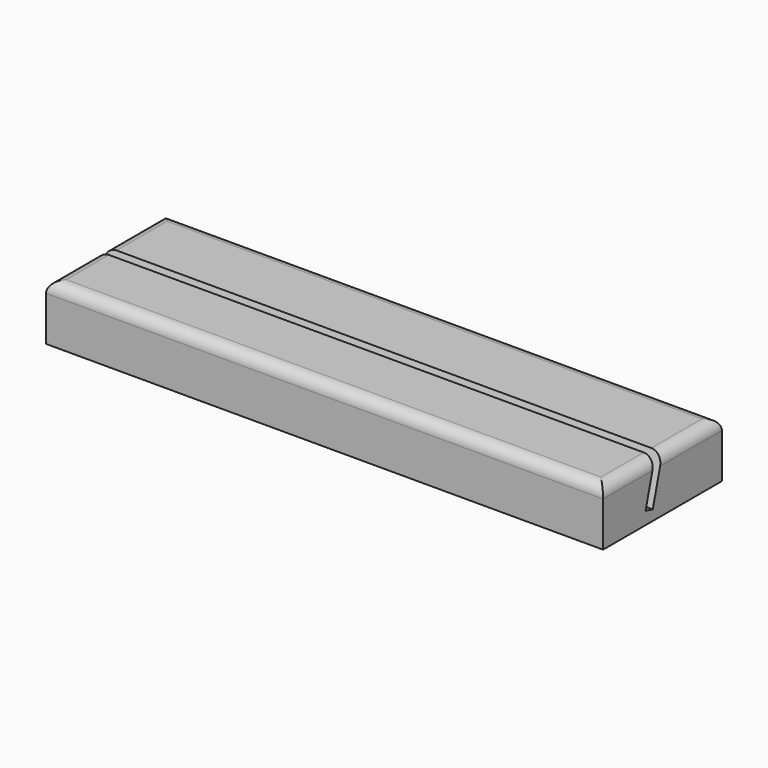
from build123d import *

# Parameters (mm, degrees)
F0_W     = 150
F0_H     = 40
F1_DEPTH = 15
F3_DEPTH = 150
F4_R     = 3


with BuildPart() as f1:
    # F0 (on Top) → F1 (new body)
    with BuildSketch(Plane.XY):
        with Locations((0, -20)):
            Rectangle(F0_W, F0_H)
    extrude(amount=F1_DEPTH)

    # F2 (on face) → F3 (cut)
    with BuildSketch(Plane(origin=(-75, 0, 0), x_dir=(0, -1, 0), z_dir=(-1, 0, 0))):
        Polygon((22.588190451, 15), (20, 15), (23.2792044265, 2.7618424718), (25.6940189923, 3.4088900845), align=None)
    extrude(amount=-F3_DEPTH, mode=Mode.SUBTRACT)

    # F4
    f4_edges = [f1.edges().sort_by_distance(p)[0] for p in [
        (0, 0, 15),
        (-75, -10, 15),
        (75, -10, 15),
        (75, -31.294095, 15),
        (0, -40, 15),
        (-75, -31.294095, 15),
    ]]
    fillet(f4_edges, radius=F4_R)


solid = f1.part
